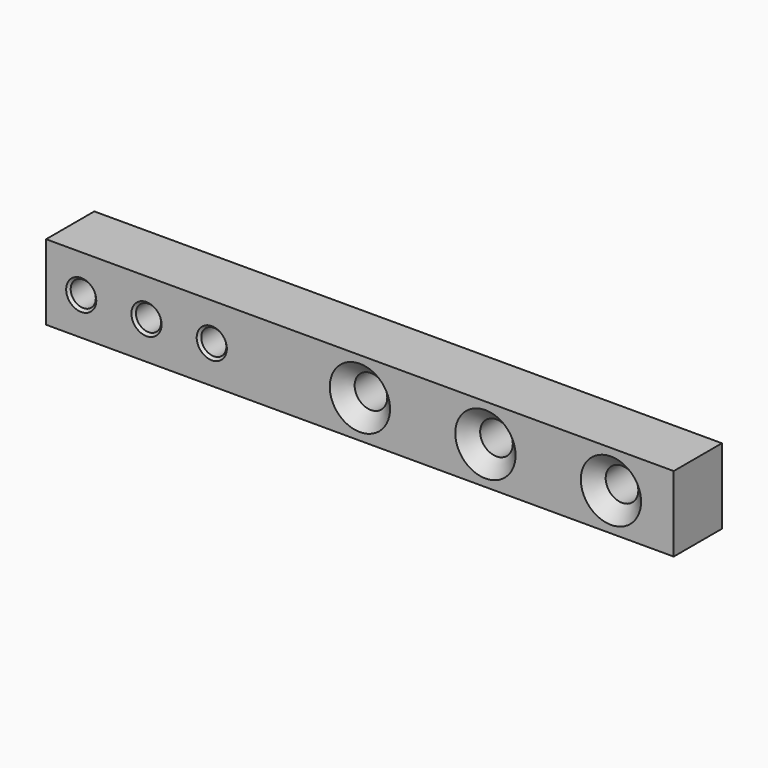
from build123d import *

# Parameters (mm, degrees)
F0_W     = 125
F0_H     = 15
F0_R     = 2.5
F0_R_2   = 3.25
F1_DEPTH = 12
F2_SIZE  = 2.75
F3_SIZE  = 0.5


with BuildPart() as f1:
    # F0 (on Front) → F1 (new body)
    with BuildSketch(Plane.XZ):
        with Locations((-21.2495, 0)):
            Rectangle(F0_W, F0_H)
        with Locations((-76.7495, 0)):
            Circle(F0_R, mode=Mode.SUBTRACT)
        with Locations((-63.7495, 0)):
            Circle(F0_R, mode=Mode.SUBTRACT)
        with Locations((-50.7495, 0)):
            Circle(F0_R, mode=Mode.SUBTRACT)
        with Locations((-21.2495, 0)):
            Circle(F0_R_2, mode=Mode.SUBTRACT)
        with Locations((3.7505, 0)):
            Circle(F0_R_2, mode=Mode.SUBTRACT)
        with Locations((28.7505, 0)):
            Circle(F0_R_2, mode=Mode.SUBTRACT)
    extrude(amount=F1_DEPTH)

    # F2
    f2_edges = [f1.edges().sort_by_distance(p)[0] for p in [
        (-24.4995, -12, 0),
        (0.5005, -12, 0),
        (25.5005, -12, 0),
    ]]
    chamfer(f2_edges, length=F2_SIZE)

    # F3
    f3_edges = [f1.edges().sort_by_distance(p)[0] for p in [
        (-79.2495, -12, 0),
        (-66.2495, -12, 0),
        (-53.2495, -12, 0),
        (0.5005, 0, 0),
        (25.5005, 0, 0),
        (-24.4995, 0, 0),
        (-53.2495, 0, 0),
        (-66.2495, 0, 0),
        (-79.2495, 0, 0),
    ]]
    chamfer(f3_edges, length=F3_SIZE)


solid = f1.part
